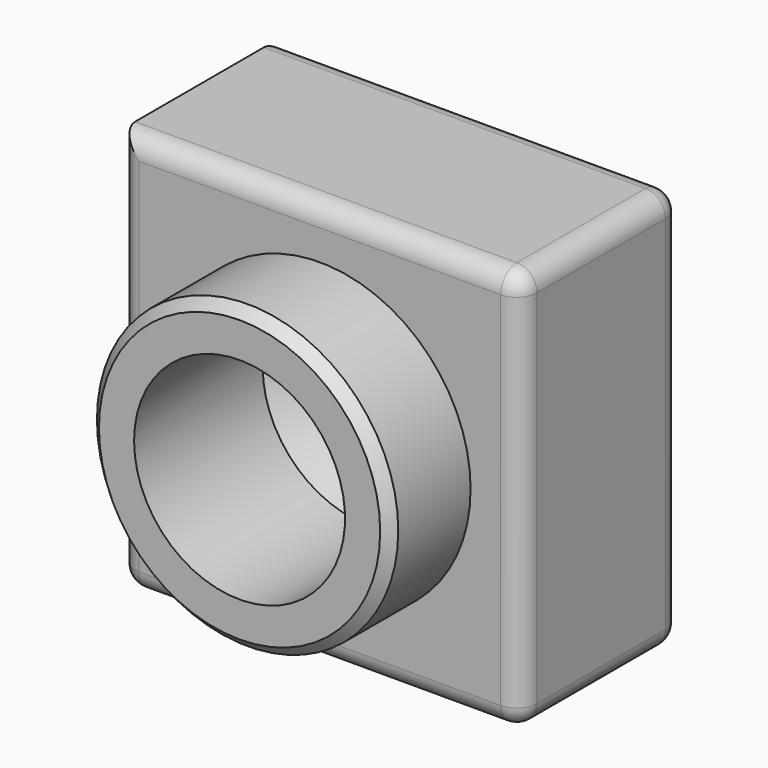
from build123d import *

# Parameters (mm, degrees)
F0_W     = 20
F0_H     = 20
F1_DEPTH = 10
F2_R     = 7.5
F3_DEPTH = 5
F5_D     = 10.5
F5_DEPTH = 8
F5_TIP   = 3.1545182499
F6_R     = 1
F7_SIZE  = 0.5


with BuildPart() as f1:
    # F0 (on Front) → F1 (new body)
    with BuildSketch(Plane.XZ):
        Rectangle(F0_W, F0_H)
    extrude(amount=F1_DEPTH)

    # F2 (on face) → F3 (join)
    with BuildSketch(Plane.XZ.offset(10)):
        Circle(F2_R)
    extrude(amount=F3_DEPTH)

    # F5
    with Locations(Plane.XZ.offset(15)):
        with Locations((0, 0)):
            Hole(F5_D / 2, depth=F5_DEPTH)
            with Locations((0, 0, -(F5_DEPTH + F5_TIP / 2))):  # 118° drill point
                Cone(0, F5_D / 2, F5_TIP, mode=Mode.SUBTRACT)

    # F6
    f6_edges = [f1.edges().sort_by_distance(p)[0] for p in [
        (0, -10, 10),
        (-10, -10, 0),
        (0, -10, -10),
        (10, -10, 0),
        (-10, -5, -10),
        (0, 0, -10),
        (10, -5, -10),
        (10, -5, 10),
        (10, 0, 0),
        (-10, 0, 0),
        (0, 0, 10),
    ]]
    fillet(f6_edges, radius=F6_R)

    # F7
    f7_edges = [f1.edges().sort_by_distance(p)[0] for p in [
        (-7.5, -15, 0),
    ]]
    chamfer(f7_edges, length=F7_SIZE)


solid = f1.part
